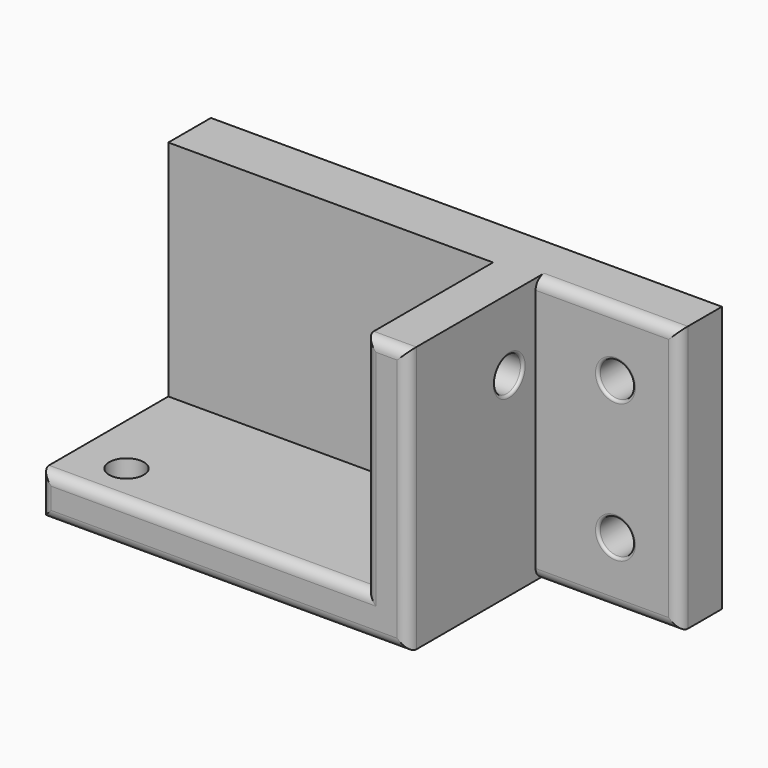
from build123d import *

# Parameters (mm, degrees)
SKETCH011_R      = 1.625
EXTRUDE011_DEPTH = 75
SKETCH010_R      = 1.625
EXTRUDE010_DEPTH = 10
EXTRUDE008_DEPTH = 20
SKETCH009_W      = 48
SKETCH009_H      = 25
SKETCH009_R      = 1.625
EXTRUDE009_DEPTH = 5
FILLET017_R      = 1
FILLET015_R      = 1
FILLET016_R      = 0.25


with BuildPart() as extrude011:
    # Sketch011 → Extrude011 (new body)
    with BuildSketch(Plane.YZ):
        with Locations((-8.1, 14.25)):
            Circle(SKETCH011_R)
    extrude(amount=EXTRUDE011_DEPTH)


with BuildPart() as cuts001:
    # Sketch010 → Extrude010 (new body)
    with BuildSketch(Plane.XY):
        with Locations((29.75, -15.85)):
            Circle(SKETCH010_R)
    extrude(amount=-EXTRUDE010_DEPTH)

    # Fusion018: union Extrude011
    add(extrude011.part)


with BuildPart() as extrude008:
    # Sketch008 → Extrude008 (new body)
    with BuildSketch(Plane.XZ):
        Polygon((25, 0), (25, -4), (59.5, -4), (59.5, 21), (55.5, 21), (55.5, 0), align=None)
    extrude(amount=EXTRUDE008_DEPTH)


with BuildPart() as fillet016:
    # Sketch009 → Extrude009 (new body)
    with BuildSketch(Plane.XZ):
        with Locations((49, 8.5)):
            Rectangle(SKETCH009_W, SKETCH009_H)
        with Locations((67, 15)):
            Circle(SKETCH009_R, mode=Mode.SUBTRACT)
        with Locations((67, 2)):
            Circle(SKETCH009_R, mode=Mode.SUBTRACT)
    extrude(amount=EXTRUDE009_DEPTH)

    # Fusion017: union Extrude008
    add(extrude008.part)

    # Cut020: cut cuts001
    add(cuts001.part, mode=Mode.SUBTRACT)

    # Fillet017
    fillet017_edges = [fillet016.edges().sort_by_distance(p)[0] for p in [
        (57.5, -20, 21),
        (59.5, -20, 8.5),
        (55.5, -20, 10.5),
        (25, -20, -2),
        (42.25, -20, -4),
        (40.25, -20, 0),
    ]]
    fillet(fillet017_edges, radius=FILLET017_R)

    # Fillet015
    fillet015_edges = [fillet016.edges().sort_by_distance(p)[0] for p in [
        (66.25, -5, 21),
        (66.25, -5, -4),
        (73, -5, 8.5),
    ]]
    fillet(fillet015_edges, radius=FILLET015_R)

    # Fillet016
    fillet016_edges = [fillet016.edges().sort_by_distance(p)[0] for p in [
        (59.5, -9.725, 14.25),
        (28.125, -15.85, -4),
        (65.375, -5, 2),
        (65.375, -5, 15),
    ]]
    fillet(fillet016_edges, radius=FILLET016_R)


solid = fillet016.part
